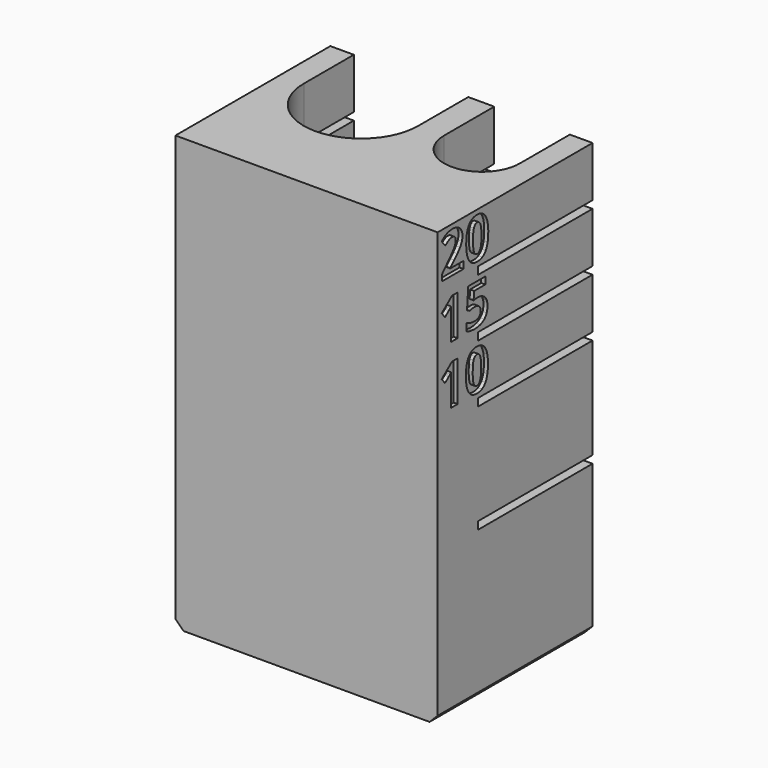
from build123d import *

# Parameters (mm, degrees)
SKETCH_W        = 26
SKETCH_H        = 17
SKETCH_R        = 5.675
SKETCH_R_2      = 3.75
PAD_DEPTH       = 15
SKETCH001_W     = 26
SKETCH001_H     = 43
PAD001_DEPTH    = 3
PAD002_DEPTH    = 27.25
SKETCH003_W     = 26
SKETCH003_H     = 0.75
POCKET_DEPTH    = 15
SKETCH004_W     = 2
SKETCH004_H     = 0.75
PAD003_DEPTH    = 26
POCKET001_DEPTH = 0.4
CHAMFER_SIZE    = 0.8


with BuildPart() as part:
    # Sketch → Pad (new body)
    with BuildSketch(Plane.XY):
        with Locations((5, -1.5)):
            Rectangle(SKETCH_W, SKETCH_H)
        Circle(SKETCH_R, mode=Mode.SUBTRACT)
        with Locations((12, 0)):
            Circle(SKETCH_R_2, mode=Mode.SUBTRACT)
    extrude(amount=PAD_DEPTH)

    # Sketch001 (on Face2 of Pad) → Pad001 (join)
    with BuildSketch(Plane.XZ.offset(10)):
        with Locations((5, 21.5)):
            Rectangle(SKETCH001_W, SKETCH001_H)
    extrude(amount=PAD001_DEPTH)

    # Sketch002 (on DatumPlane) → Pad002 (join)
    with BuildSketch(Plane(origin=(0, 0, 15.75), x_dir=(0, 1, 0), z_dir=(0, 0, 1))):
        with BuildLine():
            Line((7, 8), (-10, 8))
            Line((-10, 8), (-10, -18))
            Line((-10, -18), (7, -18))
            Line((7, -18), (7, -15.75))
            Line((0, -15.75), (7, -15.75))
            ThreePointArc((0, -8.25), (-3.75, -12), (0, -15.75))
            Line((0, -8.25), (7, -8.25))
            Line((7, -8.25), (7, -5.675))
            Line((0, -5.675), (7, -5.675))
            ThreePointArc((0, 5.675), (-5.675, 0), (0, -5.675))
            Line((0, 5.675), (7, 5.675))
            Line((7, 5.675), (7, 8))
        make_face()
    extrude(amount=PAD002_DEPTH)

    # Sketch003 (on Face15 of Pad002) → Pocket (cut)
    with BuildSketch(Plane(origin=(0, 7, 0), x_dir=(-1, 0, 0), z_dir=(0, 1, 0))):
        with Locations((-5, 26.125)):
            Rectangle(SKETCH003_W, SKETCH003_H)
        with Locations((-5, 31.875)):
            Rectangle(SKETCH003_W, SKETCH003_H)
        with Locations((-5, 37.625)):
            Rectangle(SKETCH003_W, SKETCH003_H)
    extrude(amount=-POCKET_DEPTH, mode=Mode.SUBTRACT)

    # Sketch004 (on Face2 of Pocket) → Pad003 (join)
    with BuildSketch(Plane.YZ.offset(18)):
        with Locations((-9, 15.375)):
            Rectangle(SKETCH004_W, SKETCH004_H)
    extrude(amount=-PAD003_DEPTH)

    # Sketch005 → Pocket001 (cut)
    with BuildSketch(Plane(origin=(18, 0, 0), x_dir=(0, 0, -1), z_dir=(1, 0, 0))):
        with BuildLine():
            Line((-38.5, -9.807762), (-38.5, -12.489067))
            Line((-38.5, -12.489067), (-39.087646, -12.489067))
            Line((-39.087646, -12.489067), (-40.103134, -11.548834))
            add(Edge.make_bspline(
                [(-40.103134, -11.548834), (-40.294643, -11.371173), (-40.456086, -11.226312)],
                knots=[0, 0, 0, 1, 1, 1], degree=2))
            add(Edge.make_bspline(
                [(-40.456086, -11.226312), (-40.617711, -11.08145), (-40.770955, -10.977587)],
                knots=[0, 0, 0, 1, 1, 1], degree=2))
            add(Edge.make_bspline(
                [(-40.770955, -10.977587), (-40.924198, -10.873724), (-41.082908, -10.816326)],
                knots=[0, 0, 0, 1, 1, 1], degree=2))
            add(Edge.make_bspline(
                [(-41.082908, -10.816326), (-41.2418, -10.758928), (-41.425109, -10.758928)],
                knots=[0, 0, 0, 1, 1, 1], degree=2))
            add(Edge.make_bspline(
                [(-41.425109, -10.758928), (-41.628098, -10.758928), (-41.740525, -10.880649)],
                knots=[0, 0, 0, 1, 1, 1], degree=2))
            add(Edge.make_bspline(
                [(-41.740525, -10.880649), (-41.853134, -11.002186), (-41.853134, -11.207179)],
                knots=[0, 0, 0, 1, 1, 1], degree=2))
            add(Edge.make_bspline(
                [(-41.853134, -11.207179), (-41.853134, -11.423105), (-41.746538, -11.622631)],
                knots=[0, 0, 0, 1, 1, 1], degree=2))
            add(Edge.make_bspline(
                [(-41.746538, -11.622631), (-41.639942, -11.822157), (-41.443149, -12.040816)],
                knots=[0, 0, 0, 1, 1, 1], degree=2))
            Line((-41.443149, -12.040816), (-41.987063, -12.5))
            add(Edge.make_bspline(
                [(-41.987063, -12.5), (-42.099125, -12.377004), (-42.201531, -12.243076)],
                knots=[0, 0, 0, 1, 1, 1], degree=2))
            add(Edge.make_bspline(
                [(-42.201531, -12.243076), (-42.304118, -12.109147), (-42.383382, -11.947886)],
                knots=[0, 0, 0, 1, 1, 1], degree=2))
            add(Edge.make_bspline(
                [(-42.383382, -11.947886), (-42.462646, -11.786625), (-42.510386, -11.592565)],
                knots=[0, 0, 0, 1, 1, 1], degree=2))
            add(Edge.make_bspline(
                [(-42.510386, -11.592565), (-42.558309, -11.398506), (-42.558309, -11.157981)],
                knots=[0, 0, 0, 1, 1, 1], degree=2))
            add(Edge.make_bspline(
                [(-42.558309, -11.157981), (-42.558309, -10.870991), (-42.478863, -10.642857)],
                knots=[0, 0, 0, 1, 1, 1], degree=2))
            add(Edge.make_bspline(
                [(-42.478863, -10.642857), (-42.399599, -10.414541), (-42.253098, -10.25328)],
                knots=[0, 0, 0, 1, 1, 1], degree=2))
            add(Edge.make_bspline(
                [(-42.253098, -10.25328), (-42.106596, -10.092019), (-41.898506, -10.006013)],
                knots=[0, 0, 0, 1, 1, 1], degree=2))
            add(Edge.make_bspline(
                [(-41.898506, -10.006013), (-41.690598, -9.919825), (-41.430576, -9.919825)],
                knots=[0, 0, 0, 1, 1, 1], degree=2))
            add(Edge.make_bspline(
                [(-41.430576, -9.919825), (-41.195153, -9.919825), (-40.980321, -10.001822)],
                knots=[0, 0, 0, 1, 1, 1], degree=2))
            add(Edge.make_bspline(
                [(-40.980321, -10.001822), (-40.765488, -10.083819), (-40.558673, -10.225947)],
                knots=[0, 0, 0, 1, 1, 1], degree=2))
            add(Edge.make_bspline(
                [(-40.558673, -10.225947), (-40.352041, -10.368076), (-40.148141, -10.555393)],
                knots=[0, 0, 0, 1, 1, 1], degree=2))
            add(Edge.make_bspline(
                [(-40.148141, -10.555393), (-39.944242, -10.742529), (-39.733418, -10.955721)],
                knots=[0, 0, 0, 1, 1, 1], degree=2))
            Line((-39.733418, -10.955721), (-39.248907, -11.436771))
            Line((-39.248907, -11.436771), (-39.210641, -11.436771))
            Line((-39.210641, -11.436771), (-39.210641, -9.807762))
            Line((-39.210641, -9.807762), (-38.5, -9.807762))
        make_face()
        with BuildLine():
            add(Edge.make_bspline(
                [(-40.495809, -6.723579), (-40.011662, -6.723579), (-39.631378, -6.798834)],
                knots=[0, 0, 0, 1, 1, 1], degree=2))
            add(Edge.make_bspline(
                [(-39.631378, -6.798834), (-39.251276, -6.873907), (-38.985969, -7.039359)],
                knots=[0, 0, 0, 1, 1, 1], degree=2))
            add(Edge.make_bspline(
                [(-38.985969, -7.039359), (-38.720663, -7.204628), (-38.581086, -7.465743)],
                knots=[0, 0, 0, 1, 1, 1], degree=2))
            add(Edge.make_bspline(
                [(-38.581086, -7.465743), (-38.441691, -7.726676), (-38.441691, -8.095663)],
                knots=[0, 0, 0, 1, 1, 1], degree=2))
            add(Edge.make_bspline(
                [(-38.441691, -8.095663), (-38.441691, -8.442784), (-38.581086, -8.699708)],
                knots=[0, 0, 0, 1, 1, 1], degree=2))
            add(Edge.make_bspline(
                [(-38.581086, -8.699708), (-38.720663, -8.956633), (-38.985969, -9.126093)],
                knots=[0, 0, 0, 1, 1, 1], degree=2))
            add(Edge.make_bspline(
                [(-38.985969, -9.126093), (-39.251276, -9.295554), (-39.631378, -9.379009)],
                knots=[0, 0, 0, 1, 1, 1], degree=2))
            add(Edge.make_bspline(
                [(-39.631378, -9.379009), (-40.011662, -9.462281), (-40.495809, -9.462281)],
                knots=[0, 0, 0, 1, 1, 1], degree=2))
            add(Edge.make_bspline(
                [(-40.495809, -9.462281), (-40.979956, -9.462281), (-41.362974, -9.387208)],
                knots=[0, 0, 0, 1, 1, 1], degree=2))
            add(Edge.make_bspline(
                [(-41.362974, -9.387208), (-41.745991, -9.311953), (-42.011297, -9.147959)],
                knots=[0, 0, 0, 1, 1, 1], degree=2))
            add(Edge.make_bspline(
                [(-42.011297, -9.147959), (-42.276603, -8.983965), (-42.417456, -8.724307)],
                knots=[0, 0, 0, 1, 1, 1], degree=2))
            add(Edge.make_bspline(
                [(-42.417456, -8.724307), (-42.558309, -8.46465), (-42.558309, -8.095663)],
                knots=[0, 0, 0, 1, 1, 1], degree=2))
            add(Edge.make_bspline(
                [(-42.558309, -8.095663), (-42.558309, -7.751275), (-42.418732, -7.494351)],
                knots=[0, 0, 0, 1, 1, 1], degree=2))
            add(Edge.make_bspline(
                [(-42.418732, -7.494351), (-42.279337, -7.237427), (-42.014031, -7.065233)],
                knots=[0, 0, 0, 1, 1, 1], degree=2))
            add(Edge.make_bspline(
                [(-42.014031, -7.065233), (-41.748724, -6.893039), (-41.365707, -6.808309)],
                knots=[0, 0, 0, 1, 1, 1], degree=2))
            add(Edge.make_bspline(
                [(-41.365707, -6.808309), (-40.98269, -6.723579), (-40.495809, -6.723579)],
                knots=[0, 0, 0, 1, 1, 1], degree=2))
        make_face()
        with BuildLine():
            add(Edge.make_bspline(
                [(-40.497267, -8.620445), (-39.813776, -8.620445), (-39.469388, -8.502915)],
                knots=[0, 0, 0, 1, 1, 1], degree=2))
            add(Edge.make_bspline(
                [(-39.469388, -8.502915), (-39.125, -8.385386), (-39.125, -8.095663)],
                knots=[0, 0, 0, 1, 1, 1], degree=2))
            add(Edge.make_bspline(
                [(-39.125, -8.095663), (-39.125, -7.811407), (-39.466655, -7.687135)],
                knots=[0, 0, 0, 1, 1, 1], degree=2))
            add(Edge.make_bspline(
                [(-39.466655, -7.687135), (-39.808309, -7.562682), (-40.497267, -7.562682)],
                knots=[0, 0, 0, 1, 1, 1], degree=2))
            add(Edge.make_bspline(
                [(-40.497267, -7.562682), (-41.183309, -7.562682), (-41.529155, -7.687135)],
                knots=[0, 0, 0, 1, 1, 1], degree=2))
            add(Edge.make_bspline(
                [(-41.529155, -7.687135), (-41.875, -7.811407), (-41.875, -8.095663)],
                knots=[0, 0, 0, 1, 1, 1], degree=2))
            add(Edge.make_bspline(
                [(-41.875, -8.095663), (-41.875, -8.240525), (-41.787536, -8.340379)],
                knots=[0, 0, 0, 1, 1, 1], degree=2))
            add(Edge.make_bspline(
                [(-41.787536, -8.340379), (-41.700073, -8.440051), (-41.527879, -8.502915)],
                knots=[0, 0, 0, 1, 1, 1], degree=2))
            add(Edge.make_bspline(
                [(-41.527879, -8.502915), (-41.355685, -8.56578), (-41.097303, -8.593112)],
                knots=[0, 0, 0, 1, 1, 1], degree=2))
            add(Edge.make_bspline(
                [(-41.097303, -8.593112), (-40.838921, -8.620445), (-40.497267, -8.620445)],
                knots=[0, 0, 0, 1, 1, 1], degree=2))
        make_face(mode=Mode.SUBTRACT)
        with BuildLine():
            Line((-32.75, -10.518404), (-32.75, -11.362974))
            Line((-32.75, -11.362974), (-35.064687, -11.362974))
            add(Edge.make_bspline(
                [(-35.064687, -11.362974), (-35.135751, -11.362974), (-35.235605, -11.361698)],
                knots=[0, 0, 0, 1, 1, 1], degree=2))
            add(Edge.make_bspline(
                [(-35.235605, -11.361698), (-35.335459, -11.36024), (-35.443513, -11.356232)],
                knots=[0, 0, 0, 1, 1, 1], degree=2))
            add(Edge.make_bspline(
                [(-35.443513, -11.356232), (-35.551567, -11.352041), (-35.661079, -11.348032)],
                knots=[0, 0, 0, 1, 1, 1], degree=2))
            add(Edge.make_bspline(
                [(-35.661079, -11.348032), (-35.77059, -11.343841), (-35.860787, -11.341108)],
                knots=[0, 0, 0, 1, 1, 1], degree=2))
            add(Edge.make_bspline(
                [(-35.860787, -11.341108), (-35.844388, -11.354774), (-35.811589, -11.387573)],
                knots=[0, 0, 0, 1, 1, 1], degree=2))
            add(Edge.make_bspline(
                [(-35.811589, -11.387573), (-35.77879, -11.420372), (-35.739067, -11.46137)],
                knots=[0, 0, 0, 1, 1, 1], degree=2))
            add(Edge.make_bspline(
                [(-35.739067, -11.46137), (-35.699344, -11.502369), (-35.658345, -11.5461)],
                knots=[0, 0, 0, 1, 1, 1], degree=2))
            add(Edge.make_bspline(
                [(-35.658345, -11.5461), (-35.617347, -11.589832), (-35.584548, -11.630831)],
                knots=[0, 0, 0, 1, 1, 1], degree=2))
            Line((-35.584548, -11.630831), (-35.215197, -12.090014))
            Line((-35.215197, -12.090014), (-35.723943, -12.5))
            Line((-35.723943, -12.5), (-36.75, -11.212646))
            Line((-36.75, -11.212646), (-36.75, -10.518404))
            Line((-36.75, -10.518404), (-32.75, -10.518404))
        make_face()
        with BuildLine():
            add(Edge.make_bspline(
                [(-35.303936, -8.038265), (-35.303936, -7.781341), (-35.22449, -7.559949)],
                knots=[0, 0, 0, 1, 1, 1], degree=2))
            add(Edge.make_bspline(
                [(-35.22449, -7.559949), (-35.145044, -7.338557), (-34.991618, -7.174563)],
                knots=[0, 0, 0, 1, 1, 1], degree=2))
            add(Edge.make_bspline(
                [(-34.991618, -7.174563), (-34.838375, -7.010568), (-34.609694, -6.917638)],
                knots=[0, 0, 0, 1, 1, 1], degree=2))
            add(Edge.make_bspline(
                [(-34.609694, -6.917638), (-34.381195, -6.824708), (-34.085459, -6.824708)],
                knots=[0, 0, 0, 1, 1, 1], degree=2))
            add(Edge.make_bspline(
                [(-34.085459, -6.824708), (-33.759657, -6.824708), (-33.500729, -6.925838)],
                knots=[0, 0, 0, 1, 1, 1], degree=2))
            add(Edge.make_bspline(
                [(-33.500729, -6.925838), (-33.241983, -7.026968), (-33.062682, -7.223761)],
                knots=[0, 0, 0, 1, 1, 1], degree=2))
            add(Edge.make_bspline(
                [(-33.062682, -7.223761), (-32.883382, -7.420554), (-32.787536, -7.711735)],
                knots=[0, 0, 0, 1, 1, 1], degree=2))
            add(Edge.make_bspline(
                [(-32.787536, -7.711735), (-32.691691, -8.002733), (-32.691691, -8.37992)],
                knots=[0, 0, 0, 1, 1, 1], degree=2))
            add(Edge.make_bspline(
                [(-32.691691, -8.37992), (-32.691691, -8.530248), (-32.705357, -8.677842)],
                knots=[0, 0, 0, 1, 1, 1], degree=2))
            add(Edge.make_bspline(
                [(-32.705357, -8.677842), (-32.719023, -8.825437), (-32.74508, -8.960824)],
                knots=[0, 0, 0, 1, 1, 1], degree=2))
            add(Edge.make_bspline(
                [(-32.74508, -8.960824), (-32.770955, -9.096028), (-32.811953, -9.217748)],
                knots=[0, 0, 0, 1, 1, 1], degree=2))
            add(Edge.make_bspline(
                [(-32.811953, -9.217748), (-32.852952, -9.339286), (-32.907617, -9.437682)],
                knots=[0, 0, 0, 1, 1, 1], degree=2))
            Line((-32.907617, -9.437682), (-33.637391, -9.437682))
            add(Edge.make_bspline(
                [(-33.637391, -9.437682), (-33.582179, -9.342019), (-33.53371, -9.21629)],
                knots=[0, 0, 0, 1, 1, 1], degree=2))
            add(Edge.make_bspline(
                [(-33.53371, -9.21629), (-33.485423, -9.090561), (-33.450802, -8.955357)],
                knots=[0, 0, 0, 1, 1, 1], degree=2))
            add(Edge.make_bspline(
                [(-33.450802, -8.955357), (-33.416363, -8.819971), (-33.39559, -8.683309)],
                knots=[0, 0, 0, 1, 1, 1], degree=2))
            add(Edge.make_bspline(
                [(-33.39559, -8.683309), (-33.375, -8.546647), (-33.375, -8.423652)],
                knots=[0, 0, 0, 1, 1, 1], degree=2))
            add(Edge.make_bspline(
                [(-33.375, -8.423652), (-33.375, -8.057398), (-33.527515, -7.866071)],
                knots=[0, 0, 0, 1, 1, 1], degree=2))
            add(Edge.make_bspline(
                [(-33.527515, -7.866071), (-33.680211, -7.674745), (-34.012937, -7.674745)],
                knots=[0, 0, 0, 1, 1, 1], degree=2))
            add(Edge.make_bspline(
                [(-34.012937, -7.674745), (-34.309949, -7.674745), (-34.465197, -7.862063)],
                knots=[0, 0, 0, 1, 1, 1], degree=2))
            add(Edge.make_bspline(
                [(-34.465197, -7.862063), (-34.620627, -8.049198), (-34.620627, -8.440051)],
                knots=[0, 0, 0, 1, 1, 1], degree=2))
            add(Edge.make_bspline(
                [(-34.620627, -8.440051), (-34.620627, -8.511115), (-34.612427, -8.591837)],
                knots=[0, 0, 0, 1, 1, 1], degree=2))
            add(Edge.make_bspline(
                [(-34.612427, -8.591837), (-34.604227, -8.672376), (-34.590561, -8.750364)],
                knots=[0, 0, 0, 1, 1, 1], degree=2))
            add(Edge.make_bspline(
                [(-34.590561, -8.750364), (-34.576895, -8.82817), (-34.561771, -8.899235)],
                knots=[0, 0, 0, 1, 1, 1], degree=2))
            add(Edge.make_bspline(
                [(-34.561771, -8.899235), (-34.546829, -8.970299), (-34.53043, -9.02223)],
                knots=[0, 0, 0, 1, 1, 1], degree=2))
            Line((-34.53043, -9.02223), (-34.711006, -9.358418))
            Line((-34.711006, -9.358418), (-36.75, -9.20809))
            Line((-36.75, -9.20809), (-36.75, -7.098032))
            Line((-36.75, -7.098032), (-36.044825, -7.098032))
            Line((-36.044825, -7.098032), (-36.044825, -8.475583))
            Line((-36.044825, -8.475583), (-35.246538, -8.541181))
            add(Edge.make_bspline(
                [(-35.246538, -8.541181), (-35.265671, -8.453717), (-35.284803, -8.337646)],
                knots=[0, 0, 0, 1, 1, 1], degree=2))
            add(Edge.make_bspline(
                [(-35.284803, -8.337646), (-35.303936, -8.221392), (-35.303936, -8.038265)],
                knots=[0, 0, 0, 1, 1, 1], degree=2))
        make_face()
        with BuildLine():
            Line((-27, -10.518404), (-27, -11.362974))
            Line((-27, -11.362974), (-29.314687, -11.362974))
            add(Edge.make_bspline(
                [(-29.314687, -11.362974), (-29.385751, -11.362974), (-29.485605, -11.361698)],
                knots=[0, 0, 0, 1, 1, 1], degree=2))
            add(Edge.make_bspline(
                [(-29.485605, -11.361698), (-29.585459, -11.36024), (-29.693513, -11.356232)],
                knots=[0, 0, 0, 1, 1, 1], degree=2))
            add(Edge.make_bspline(
                [(-29.693513, -11.356232), (-29.801567, -11.352041), (-29.911079, -11.348032)],
                knots=[0, 0, 0, 1, 1, 1], degree=2))
            add(Edge.make_bspline(
                [(-29.911079, -11.348032), (-30.02059, -11.343841), (-30.110787, -11.341108)],
                knots=[0, 0, 0, 1, 1, 1], degree=2))
            add(Edge.make_bspline(
                [(-30.110787, -11.341108), (-30.094388, -11.354774), (-30.061589, -11.387573)],
                knots=[0, 0, 0, 1, 1, 1], degree=2))
            add(Edge.make_bspline(
                [(-30.061589, -11.387573), (-30.02879, -11.420372), (-29.989067, -11.46137)],
                knots=[0, 0, 0, 1, 1, 1], degree=2))
            add(Edge.make_bspline(
                [(-29.989067, -11.46137), (-29.949344, -11.502369), (-29.908345, -11.5461)],
                knots=[0, 0, 0, 1, 1, 1], degree=2))
            add(Edge.make_bspline(
                [(-29.908345, -11.5461), (-29.867347, -11.589832), (-29.834548, -11.630831)],
                knots=[0, 0, 0, 1, 1, 1], degree=2))
            Line((-29.834548, -11.630831), (-29.465197, -12.090014))
            Line((-29.465197, -12.090014), (-29.973943, -12.5))
            Line((-29.973943, -12.5), (-31, -11.212646))
            Line((-31, -11.212646), (-31, -10.518404))
            Line((-31, -10.518404), (-27, -10.518404))
        make_face()
        with BuildLine():
            add(Edge.make_bspline(
                [(-28.995809, -6.761844), (-28.511662, -6.761844), (-28.131378, -6.837099)],
                knots=[0, 0, 0, 1, 1, 1], degree=2))
            add(Edge.make_bspline(
                [(-28.131378, -6.837099), (-27.751276, -6.912172), (-27.485969, -7.077624)],
                knots=[0, 0, 0, 1, 1, 1], degree=2))
            add(Edge.make_bspline(
                [(-27.485969, -7.077624), (-27.220663, -7.242893), (-27.081086, -7.504009)],
                knots=[0, 0, 0, 1, 1, 1], degree=2))
            add(Edge.make_bspline(
                [(-27.081086, -7.504009), (-26.941691, -7.764942), (-26.941691, -8.133928)],
                knots=[0, 0, 0, 1, 1, 1], degree=2))
            add(Edge.make_bspline(
                [(-26.941691, -8.133928), (-26.941691, -8.481049), (-27.081086, -8.737974)],
                knots=[0, 0, 0, 1, 1, 1], degree=2))
            add(Edge.make_bspline(
                [(-27.081086, -8.737974), (-27.220663, -8.994898), (-27.485969, -9.164359)],
                knots=[0, 0, 0, 1, 1, 1], degree=2))
            add(Edge.make_bspline(
                [(-27.485969, -9.164359), (-27.751276, -9.333819), (-28.131378, -9.417274)],
                knots=[0, 0, 0, 1, 1, 1], degree=2))
            add(Edge.make_bspline(
                [(-28.131378, -9.417274), (-28.511662, -9.500547), (-28.995809, -9.500547)],
                knots=[0, 0, 0, 1, 1, 1], degree=2))
            add(Edge.make_bspline(
                [(-28.995809, -9.500547), (-29.479956, -9.500547), (-29.862974, -9.425474)],
                knots=[0, 0, 0, 1, 1, 1], degree=2))
            add(Edge.make_bspline(
                [(-29.862974, -9.425474), (-30.245991, -9.350219), (-30.511297, -9.186224)],
                knots=[0, 0, 0, 1, 1, 1], degree=2))
            add(Edge.make_bspline(
                [(-30.511297, -9.186224), (-30.776603, -9.02223), (-30.917456, -8.762573)],
                knots=[0, 0, 0, 1, 1, 1], degree=2))
            add(Edge.make_bspline(
                [(-30.917456, -8.762573), (-31.058309, -8.502915), (-31.058309, -8.133928)],
                knots=[0, 0, 0, 1, 1, 1], degree=2))
            add(Edge.make_bspline(
                [(-31.058309, -8.133928), (-31.058309, -7.789541), (-30.918732, -7.532617)],
                knots=[0, 0, 0, 1, 1, 1], degree=2))
            add(Edge.make_bspline(
                [(-30.918732, -7.532617), (-30.779337, -7.275692), (-30.514031, -7.103498)],
                knots=[0, 0, 0, 1, 1, 1], degree=2))
            add(Edge.make_bspline(
                [(-30.514031, -7.103498), (-30.248724, -6.931305), (-29.865707, -6.846574)],
                knots=[0, 0, 0, 1, 1, 1], degree=2))
            add(Edge.make_bspline(
                [(-29.865707, -6.846574), (-29.48269, -6.761844), (-28.995809, -6.761844)],
                knots=[0, 0, 0, 1, 1, 1], degree=2))
        make_face()
        with BuildLine():
            add(Edge.make_bspline(
                [(-28.997267, -8.65871), (-28.313776, -8.65871), (-27.969388, -8.541181)],
                knots=[0, 0, 0, 1, 1, 1], degree=2))
            add(Edge.make_bspline(
                [(-27.969388, -8.541181), (-27.625, -8.423652), (-27.625, -8.133928)],
                knots=[0, 0, 0, 1, 1, 1], degree=2))
            add(Edge.make_bspline(
                [(-27.625, -8.133928), (-27.625, -7.849672), (-27.966655, -7.725401)],
                knots=[0, 0, 0, 1, 1, 1], degree=2))
            add(Edge.make_bspline(
                [(-27.966655, -7.725401), (-28.308309, -7.600947), (-28.997267, -7.600947)],
                knots=[0, 0, 0, 1, 1, 1], degree=2))
            add(Edge.make_bspline(
                [(-28.997267, -7.600947), (-29.683309, -7.600947), (-30.029155, -7.725401)],
                knots=[0, 0, 0, 1, 1, 1], degree=2))
            add(Edge.make_bspline(
                [(-30.029155, -7.725401), (-30.375, -7.849672), (-30.375, -8.133928)],
                knots=[0, 0, 0, 1, 1, 1], degree=2))
            add(Edge.make_bspline(
                [(-30.375, -8.133928), (-30.375, -8.27879), (-30.287536, -8.378644)],
                knots=[0, 0, 0, 1, 1, 1], degree=2))
            add(Edge.make_bspline(
                [(-30.287536, -8.378644), (-30.200073, -8.478316), (-30.027879, -8.541181)],
                knots=[0, 0, 0, 1, 1, 1], degree=2))
            add(Edge.make_bspline(
                [(-30.027879, -8.541181), (-29.855685, -8.604045), (-29.597303, -8.631377)],
                knots=[0, 0, 0, 1, 1, 1], degree=2))
            add(Edge.make_bspline(
                [(-29.597303, -8.631377), (-29.338921, -8.65871), (-28.997267, -8.65871)],
                knots=[0, 0, 0, 1, 1, 1], degree=2))
        make_face(mode=Mode.SUBTRACT)
    extrude(amount=-POCKET001_DEPTH, mode=Mode.SUBTRACT)

    # Chamfer
    chamfer_edges = [part.edges().sort_by_distance(p)[0] for p in [
        (18, 7, 7.5),
        (-8, 7, 7.5),
        (5, 7, 0),
        (5, 7, 15),
        (16.875, 7, 15.75),
        (15.75, 7, 20.75),
        (16.875, 7, 25.75),
        (18, 7, 20.75),
        (16.875, 7, 26.5),
        (15.75, 7, 29),
        (16.875, 7, 31.5),
        (18, 7, 29),
        (16.875, 7, 32.25),
        (15.75, 7, 34.75),
        (16.875, 7, 37.25),
        (18, 7, 34.75),
        (16.875, 7, 38),
        (15.75, 7, 40.5),
        (16.875, 7, 43),
        (18, 7, 40.5),
        (6.9625, 7, 38),
        (5.675, 7, 40.5),
        (6.9625, 7, 43),
        (8.25, 7, 40.5),
        (6.9625, 7, 32.25),
        (5.675, 7, 34.75),
        (6.9625, 7, 37.25),
        (8.25, 7, 34.75),
        (6.9625, 7, 26.5),
        (5.675, 7, 29),
        (6.9625, 7, 31.5),
        (8.25, 7, 29),
        (6.9625, 7, 15.75),
        (5.675, 7, 20.75),
        (6.9625, 7, 25.75),
        (8.25, 7, 20.75),
        (-6.8375, 7, 15.75),
        (-8, 7, 20.75),
        (-6.8375, 7, 25.75),
        (-5.675, 7, 20.75),
        (-6.8375, 7, 26.5),
        (-8, 7, 29),
        (-6.8375, 7, 31.5),
        (-5.675, 7, 29),
        (-6.8375, 7, 32.25),
        (-8, 7, 34.75),
        (-6.8375, 7, 37.25),
        (-5.675, 7, 34.75),
        (-6.8375, 7, 38),
        (-8, 7, 40.5),
        (-6.8375, 7, 43),
        (-5.675, 7, 40.5),
        (18, -3, 0),
        (-8, -3, 0),
    ]]
    chamfer(chamfer_edges, length=CHAMFER_SIZE)


solid = part.part
